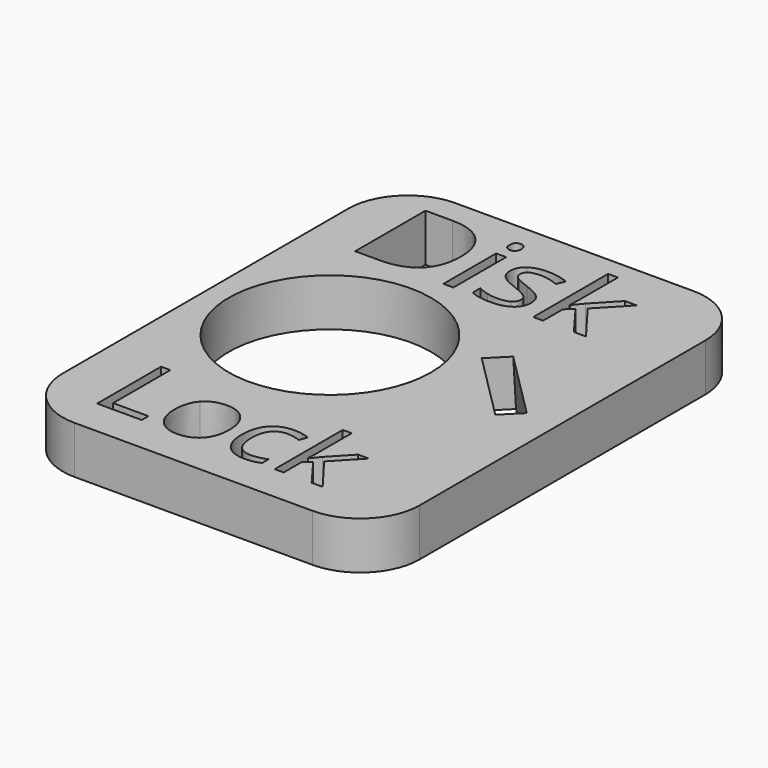
from build123d import *

# Parameters (mm, degrees)
F0_R     = 8.5
F0_W     = 0.8386900364
F0_H     = 5.534707851
F1_DEPTH = 4
F3_DEPTH = 5
F3_TAPER = 3


with BuildPart() as f1:
    # F0 (on Top) → F1 (new body)
    with BuildSketch(Plane.XY):
        with BuildLine():
            Line((14.7113580035, 0), (-5.2886419965, 0))
            ThreePointArc((-5.2886419965, 0), (-8.8241759024, -1.4644660941), (-10.2886419965, -5))
            Line((-10.2886419965, -5), (-10.2886419965, -35))
            ThreePointArc((-10.2886419965, -35), (-8.8241759024, -38.5355339059), (-5.2886419965, -40))
            Line((-5.2886419965, -40), (14.7113580035, -40))
            ThreePointArc((14.7113580035, -40), (18.2468919094, -38.5355339059), (19.7113580035, -35))
            Line((19.7113580035, -35), (19.7113580035, -5))
            ThreePointArc((19.7113580035, -5), (18.2468919094, -1.4644660941), (14.7113580035, 0))
        make_face()
        Polygon((-2.1085765261, -36.9268837428), (-5.8502877494, -36.9268837428), (-5.8502877494, -30.2147209713), (-5.0702136781, -30.2147209713), (-5.0702136781, -36.2202629739), (-2.1085765261, -36.2202629739), align=None, mode=Mode.SUBTRACT)
        with BuildLine():
            add(Edge.make_bspline(
                [(2.6357722747, -32.5057294726), (3.2579217458, -33.2086775763), (3.2579217458, -34.4059664051)],
                knots=[0, 0, 0, 1, 1, 1], degree=2))
            add(Edge.make_bspline(
                [(3.2579217458, -34.4059664051), (3.2579217458, -35.637043753), (2.6387104068, -36.3282393284)],
                knots=[0, 0, 0, 1, 1, 1], degree=2))
            add(Edge.make_bspline(
                [(2.6387104068, -36.3282393284), (2.0194990677, -37.0194349038), (0.9265139283, -37.0194349038)],
                knots=[0, 0, 0, 1, 1, 1], degree=2))
            add(Edge.make_bspline(
                [(0.9265139283, -37.0194349038), (0.2507435464, -37.0194349038), (-0.2722439666, -36.7021166376)],
                knots=[0, 0, 0, 1, 1, 1], degree=2))
            add(Edge.make_bspline(
                [(-0.2722439666, -36.7021166376), (-0.7952314795, -36.3847983713), (-1.0802302928, -35.7927647541)],
                knots=[0, 0, 0, 1, 1, 1], degree=2))
            add(Edge.make_bspline(
                [(-1.0802302928, -35.7927647541), (-1.365229106, -35.2007311369), (-1.365229106, -34.4059664051)],
                knots=[0, 0, 0, 1, 1, 1], degree=2))
            add(Edge.make_bspline(
                [(-1.365229106, -34.4059664051), (-1.365229106, -33.1763581233), (-0.7496904321, -32.489569746)],
                knots=[0, 0, 0, 1, 1, 1], degree=2))
            add(Edge.make_bspline(
                [(-0.7496904321, -32.489569746), (-0.1341517581, -31.8027813688), (0.9588333813, -31.8027813688)],
                knots=[0, 0, 0, 1, 1, 1], degree=2))
            add(Edge.make_bspline(
                [(0.9588333813, -31.8027813688), (2.0136228035, -31.8027813688), (2.6357722747, -32.5057294726)],
                knots=[0, 0, 0, 1, 1, 1], degree=2))
        make_face(mode=Mode.SUBTRACT)
        with BuildLine():
            add(Edge.make_bspline(
                [(7.8766653995, -36.7564720813), (7.3727757452, -37.0194349038), (6.6059232683, -37.0194349038)],
                knots=[0, 0, 0, 1, 1, 1], degree=2))
            add(Edge.make_bspline(
                [(6.6059232683, -37.0194349038), (5.5129381289, -37.0194349038), (4.9135591815, -36.346602654)],
                knots=[0, 0, 0, 1, 1, 1], degree=2))
            add(Edge.make_bspline(
                [(4.9135591815, -36.346602654), (4.3141802341, -35.6737704042), (4.3141802341, -34.4426930563)],
                knots=[0, 0, 0, 1, 1, 1], degree=2))
            add(Edge.make_bspline(
                [(4.3141802341, -34.4426930563), (4.3141802341, -33.1807653214), (4.9231081108, -32.4917733451)],
                knots=[0, 0, 0, 1, 1, 1], degree=2))
            add(Edge.make_bspline(
                [(4.9231081108, -32.4917733451), (5.5320359875, -31.8027813688), (6.655871514, -31.8027813688)],
                knots=[0, 0, 0, 1, 1, 1], degree=2))
            add(Edge.make_bspline(
                [(6.655871514, -31.8027813688), (7.0187308277, -31.8027813688), (7.3815901415, -31.8813764023)],
                knots=[0, 0, 0, 1, 1, 1], degree=2))
            add(Edge.make_bspline(
                [(7.3815901415, -31.8813764023), (7.7444494552, -31.9599714359), (7.9501187019, -32.0657441913)],
                knots=[0, 0, 0, 1, 1, 1], degree=2))
            Line((7.9501187019, -32.0657441913), (7.7165372003, -32.7121332522))
            add(Edge.make_bspline(
                [(7.7165372003, -32.7121332522), (7.4638578401, -32.610767695), (7.1656374325, -32.5446597228)],
                knots=[0, 0, 0, 1, 1, 1], degree=2))
            add(Edge.make_bspline(
                [(7.1656374325, -32.5446597228), (6.8674170248, -32.4785517507), (6.6382427214, -32.4785517507)],
                knots=[0, 0, 0, 1, 1, 1], degree=2))
            add(Edge.make_bspline(
                [(6.6382427214, -32.4785517507), (5.1045377677, -32.4785517507), (5.1045377677, -34.43387866)],
                knots=[0, 0, 0, 1, 1, 1], degree=2))
            add(Edge.make_bspline(
                [(5.1045377677, -34.43387866), (5.1045377677, -35.3608593361), (5.4784150768, -35.8566691272)],
                knots=[0, 0, 0, 1, 1, 1], degree=2))
            add(Edge.make_bspline(
                [(5.4784150768, -35.8566691272), (5.8522923859, -36.3524789182), (6.5868254097, -36.3524789182)],
                knots=[0, 0, 0, 1, 1, 1], degree=2))
            add(Edge.make_bspline(
                [(6.5868254097, -36.3524789182), (7.2155856781, -36.3524789182), (7.8766653995, -36.0821707655)],
                knots=[0, 0, 0, 1, 1, 1], degree=2))
            Line((7.8766653995, -36.0821707655), (7.8766653995, -36.7564720813))
        make_face(mode=Mode.SUBTRACT)
        with BuildLine():
            Line((9.7879203275, -34.3516109614), (9.8246469787, -34.3516109614))
            add(Edge.make_bspline(
                [(9.8246469787, -34.3516109614), (10.021501829, -34.0710193463), (10.4254949921, -33.6170779376)],
                knots=[0, 0, 0, 1, 1, 1], degree=2))
            Line((10.4254949921, -33.6170779376), (12.0502820408, -31.8953325298))
            Line((12.0502820408, -31.8953325298), (12.9552267261, -31.8953325298))
            Line((12.9552267261, -31.8953325298), (10.916163052, -34.0386998932))
            Line((10.916163052, -34.0386998932), (13.0977261327, -36.9268837428))
            Line((13.0977261327, -36.9268837428), (12.1751526548, -36.9268837428))
            Line((12.1751526548, -36.9268837428), (10.3975827372, -34.5484658118))
            Line((10.3975827372, -34.5484658118), (9.8246469787, -35.0450101359))
            Line((9.8246469787, -35.0450101359), (9.8246469787, -36.9268837428))
            Line((9.8246469787, -36.9268837428), (9.0710160962, -36.9268837428))
            Line((9.0710160962, -36.9268837428), (9.0710160962, -29.7828155533))
            Line((9.0710160962, -29.7828155533), (9.8246469787, -29.7828155533))
            Line((9.8246469787, -29.7828155533), (9.8246469787, -33.5715368901))
            add(Edge.make_bspline(
                [(9.8246469787, -33.5715368901), (9.8246469787, -33.8227471842), (9.7879203275, -34.3516109614)],
                knots=[0, 0, 0, 1, 1, 1], degree=2))
        make_face(mode=Mode.SUBTRACT)
        with Locations((0, -19.7897516924)):
            Circle(F0_R, mode=Mode.SUBTRACT)
        with BuildLine():
            add(Edge.make_bspline(
                [(-1.2101414454, -3.0212527569), (-0.2559093327, -3.9754848696), (-0.2559093327, -5.6884163505)],
                knots=[0, 0, 0, 1, 1, 1], degree=2))
            add(Edge.make_bspline(
                [(-0.2559093327, -5.6884163505), (-0.2559093327, -7.5160819211), (-1.2481168131, -8.4832418186)],
                knots=[0, 0, 0, 1, 1, 1], degree=2))
            add(Edge.make_bspline(
                [(-1.2481168131, -8.4832418186), (-2.2403242936, -9.450401716), (-4.1035412723, -9.450401716)],
                knots=[0, 0, 0, 1, 1, 1], degree=2))
            Line((-4.1035412723, -9.450401716), (-6.1493632108, -9.450401716))
            Line((-6.1493632108, -9.450401716), (-6.1493632108, -2.0670206442))
            Line((-6.1493632108, -2.0670206442), (-3.8870008775, -2.0670206442))
            add(Edge.make_bspline(
                [(-3.8870008775, -2.0670206442), (-2.1643735581, -2.0670206442), (-1.2101414454, -3.0212527569)],
                knots=[0, 0, 0, 1, 1, 1], degree=2))
        make_face(mode=Mode.SUBTRACT)
        with Locations((1.6840663681, -6.6830477905)):
            Rectangle(F0_W, F0_H, mode=Mode.SUBTRACT)
        with BuildLine():
            add(Edge.make_bspline(
                [(1.3350161795, -2.8378398106), (1.1936185337, -2.6988661244), (1.1936185337, -2.4160708327)],
                knots=[0, 0, 0, 1, 1, 1], degree=2))
            add(Edge.make_bspline(
                [(1.1936185337, -2.4160708327), (1.1936185337, -2.1284276218), (1.3350161795, -1.9943018549)],
                knots=[0, 0, 0, 1, 1, 1], degree=2))
            add(Edge.make_bspline(
                [(1.3350161795, -1.9943018549), (1.4764138253, -1.860176088), (1.6897222739, -1.860176088)],
                knots=[0, 0, 0, 1, 1, 1], degree=2))
            add(Edge.make_bspline(
                [(1.6897222739, -1.860176088), (1.8917189108, -1.860176088), (2.0379644759, -1.9967258145)],
                knots=[0, 0, 0, 1, 1, 1], degree=2))
            add(Edge.make_bspline(
                [(2.0379644759, -1.9967258145), (2.184210041, -2.1332755411), (2.184210041, -2.4160708327)],
                knots=[0, 0, 0, 1, 1, 1], degree=2))
            add(Edge.make_bspline(
                [(2.184210041, -2.4160708327), (2.184210041, -2.6988661244), (2.0379644759, -2.8378398106)],
                knots=[0, 0, 0, 1, 1, 1], degree=2))
            add(Edge.make_bspline(
                [(2.0379644759, -2.8378398106), (1.8917189108, -2.9768134968), (1.6897222739, -2.9768134968)],
                knots=[0, 0, 0, 1, 1, 1], degree=2))
            add(Edge.make_bspline(
                [(1.6897222739, -2.9768134968), (1.4764138253, -2.9768134968), (1.3350161795, -2.8378398106)],
                knots=[0, 0, 0, 1, 1, 1], degree=2))
        make_face(mode=Mode.SUBTRACT)
        with BuildLine():
            add(Edge.make_bspline(
                [(7.1048481158, -7.0264420733), (7.4506663582, -7.3900360197), (7.4506663582, -7.9410828451)],
                knots=[0, 0, 0, 1, 1, 1], degree=2))
            add(Edge.make_bspline(
                [(7.4506663582, -7.9410828451), (7.4506663582, -8.7135179846), (6.8753799363, -9.1328630028)],
                knots=[0, 0, 0, 1, 1, 1], degree=2))
            add(Edge.make_bspline(
                [(6.8753799363, -9.1328630028), (6.3000935144, -9.552208021), (5.2594068411, -9.552208021)],
                knots=[0, 0, 0, 1, 1, 1], degree=2))
            add(Edge.make_bspline(
                [(5.2594068411, -9.552208021), (4.1589291633, -9.552208021), (3.5432434141, -9.2031578325)],
                knots=[0, 0, 0, 1, 1, 1], degree=2))
            Line((3.5432434141, -9.2031578325), (3.5432434141, -8.4258747737))
            add(Edge.make_bspline(
                [(3.5432434141, -8.4258747737), (3.9423887686, -8.6278714106), (4.398901168, -8.7434134869)],
                knots=[0, 0, 0, 1, 1, 1], degree=2))
            add(Edge.make_bspline(
                [(4.398901168, -8.7434134869), (4.8554135673, -8.8589555632), (5.2804144914, -8.8589555632)],
                knots=[0, 0, 0, 1, 1, 1], degree=2))
            add(Edge.make_bspline(
                [(5.2804144914, -8.8589555632), (5.936499568, -8.8589555632), (6.2895896893, -8.6496870474)],
                knots=[0, 0, 0, 1, 1, 1], degree=2))
            add(Edge.make_bspline(
                [(6.2895896893, -8.6496870474), (6.6426798106, -8.4404185315), (6.6426798106, -8.0105696882)],
                knots=[0, 0, 0, 1, 1, 1], degree=2))
            add(Edge.make_bspline(
                [(6.6426798106, -8.0105696882), (6.6426798106, -7.6873750692), (6.3631164651, -7.4579068897)],
                knots=[0, 0, 0, 1, 1, 1], degree=2))
            add(Edge.make_bspline(
                [(6.3631164651, -7.4579068897), (6.0835531197, -7.2284387102), (5.2691026797, -6.9149399297)],
                knots=[0, 0, 0, 1, 1, 1], degree=2))
            add(Edge.make_bspline(
                [(5.2691026797, -6.9149399297), (4.4966675402, -6.6272967187), (4.1710489615, -6.4123722971)],
                knots=[0, 0, 0, 1, 1, 1], degree=2))
            add(Edge.make_bspline(
                [(4.1710489615, -6.4123722971), (3.8454303829, -6.1974478754), (3.686257033, -5.9251564089)],
                knots=[0, 0, 0, 1, 1, 1], degree=2))
            add(Edge.make_bspline(
                [(3.686257033, -5.9251564089), (3.5270836831, -5.6528649424), (3.5270836831, -5.2747272381)],
                knots=[0, 0, 0, 1, 1, 1], degree=2))
            add(Edge.make_bspline(
                [(3.5270836831, -5.2747272381), (3.5270836831, -4.5976345112), (4.0781305086, -4.2057610356)],
                knots=[0, 0, 0, 1, 1, 1], degree=2))
            add(Edge.make_bspline(
                [(4.0781305086, -4.2057610356), (4.629177334, -3.8138875601), (5.5874493794, -3.8138875601)],
                knots=[0, 0, 0, 1, 1, 1], degree=2))
            add(Edge.make_bspline(
                [(5.5874493794, -3.8138875601), (6.4810825011, -3.8138875601), (7.3359322684, -4.1774815065)],
                knots=[0, 0, 0, 1, 1, 1], degree=2))
            Line((7.3359322684, -4.1774815065), (7.0369772458, -4.8594221526))
            add(Edge.make_bspline(
                [(7.0369772458, -4.8594221526), (6.2047511018, -4.5168358565), (5.5276583749, -4.5168358565)],
                knots=[0, 0, 0, 1, 1, 1], degree=2))
            add(Edge.make_bspline(
                [(5.5276583749, -4.5168358565), (4.9313643028, -4.5168358565), (4.6283693475, -4.7034807489)],
                knots=[0, 0, 0, 1, 1, 1], degree=2))
            add(Edge.make_bspline(
                [(4.6283693475, -4.7034807489), (4.3253743921, -4.8901256414), (4.3253743921, -5.2181681798)],
                knots=[0, 0, 0, 1, 1, 1], degree=2))
            add(Edge.make_bspline(
                [(4.3253743921, -5.2181681798), (4.3253743921, -5.4411724669), (4.4393004953, -5.5971138706)],
                knots=[0, 0, 0, 1, 1, 1], degree=2))
            add(Edge.make_bspline(
                [(4.4393004953, -5.5971138706), (4.5532265985, -5.7530552743), (4.8053184014, -5.8944529201)],
                knots=[0, 0, 0, 1, 1, 1], degree=2))
            add(Edge.make_bspline(
                [(4.8053184014, -5.8944529201), (5.0574102042, -6.0358505659), (5.7749022585, -6.3041020997)],
                knots=[0, 0, 0, 1, 1, 1], degree=2))
            add(Edge.make_bspline(
                [(5.7749022585, -6.3041020997), (6.7590298734, -6.6628481268), (7.1048481158, -7.0264420733)],
                knots=[0, 0, 0, 1, 1, 1], degree=2))
        make_face(mode=Mode.SUBTRACT)
        with BuildLine():
            Line((9.6031425209, -6.6176008802), (9.6435418483, -6.6176008802))
            add(Edge.make_bspline(
                [(9.6435418483, -6.6176008802), (9.8600822431, -6.308950019), (10.3044748443, -5.8096143326)],
                knots=[0, 0, 0, 1, 1, 1], degree=2))
            Line((10.3044748443, -5.8096143326), (12.0917410875, -3.9156938651))
            Line((12.0917410875, -3.9156938651), (13.0871805141, -3.9156938651))
            Line((13.0871805141, -3.9156938651), (10.844209858, -6.2733986109))
            Line((10.844209858, -6.2733986109), (13.2439299044, -9.450401716))
            Line((13.2439299044, -9.450401716), (12.2290988006, -9.450401716))
            Line((12.2290988006, -9.450401716), (10.2737713554, -6.8341412749))
            Line((10.2737713554, -6.8341412749), (9.6435418483, -7.3803401811))
            Line((9.6435418483, -7.3803401811), (9.6435418483, -9.450401716))
            Line((9.6435418483, -9.450401716), (8.8145476505, -9.450401716))
            Line((8.8145476505, -9.450401716), (8.8145476505, -1.5919245542))
            Line((8.8145476505, -1.5919245542), (9.6435418483, -1.5919245542))
            Line((9.6435418483, -1.5919245542), (9.6435418483, -5.7595191666))
            add(Edge.make_bspline(
                [(9.6435418483, -5.7595191666), (9.6435418483, -6.0358505659), (9.6031425209, -6.6176008802)],
                knots=[0, 0, 0, 1, 1, 1], degree=2))
        make_face(mode=Mode.SUBTRACT)
    extrude(amount=F1_DEPTH)

    # F2 (on face) → F3 (cut)
    with BuildSketch(Plane(origin=(0, 0, 0), x_dir=(1, 0, 0), z_dir=(0, 0, -1))):
        Polygon((11.2978472607, 14.3648174522), (17.3082549008, 20.3752250923), (15.5404879479, 22.1429920452), (9.5300803078, 16.1325844051), align=None)
    extrude(amount=-F3_DEPTH, taper=F3_TAPER, mode=Mode.SUBTRACT)


solid = f1.part
